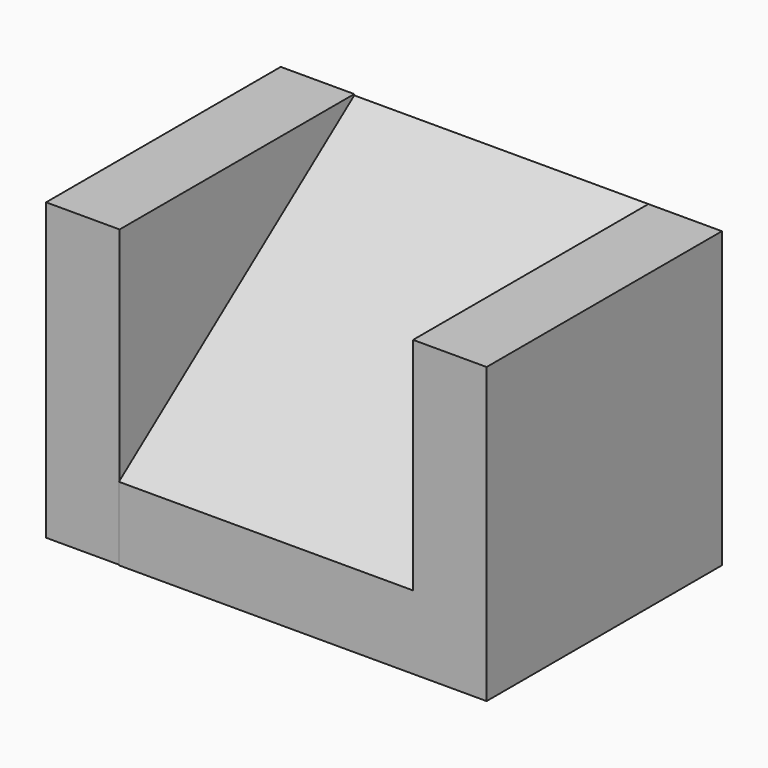
from build123d import *

# Parameters (mm, degrees)
F0_W     = 101.6
F0_H     = 101.6
F1_DEPTH = 25.4
F3_DEPTH = 101.6
F4_W     = 101.6
F4_H     = 101.6
F5_DEPTH = 25.4
F6_W     = 101.307563
F6_H     = 102.009408
F7_DEPTH = 25.4


with BuildPart() as f1:
    # F0 (on Top) → F1 (new body)
    with BuildSketch(Plane.XY):
        with Locations((-50.8, -50.8)):
            Rectangle(F0_W, F0_H)
    extrude(amount=F1_DEPTH)

    # F2 (on face) → F3 (join)
    with BuildSketch(Plane.YZ):
        Polygon((-101.6, 25.4), (0, 25.4), (0, 101.6), align=None)
    extrude(amount=-F3_DEPTH)

    # F4 (on face) → F5 (join)
    with BuildSketch(Plane.YZ):
        with Locations((-50.8, 50.8)):
            Rectangle(F4_W, F4_H)
    extrude(amount=F5_DEPTH)

    # F6 (on face) → F7 (join)
    with BuildSketch(Plane(origin=(-101.6, 0, 0), x_dir=(0, -1, 0), z_dir=(-1, 0, 0))):
        with Locations((50.653782, 51.004704)):
            Rectangle(F6_W, F6_H)
    extrude(amount=F7_DEPTH)


solid = f1.part
